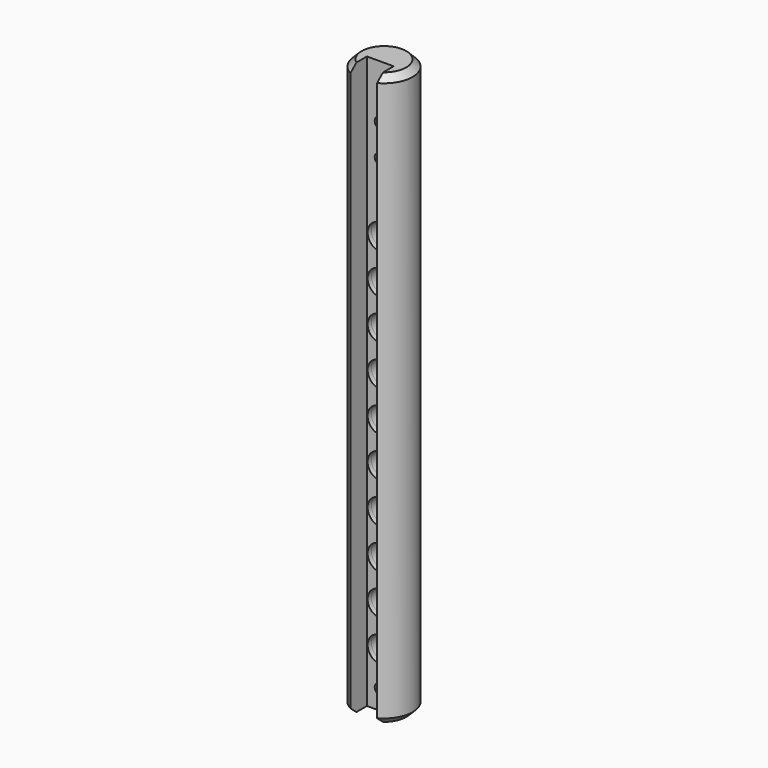
from build123d import *

# Parameters (mm, degrees)
PAD_DEPTH            = 180
CHAMFER_SIZE         = 2
SKETCH001_R          = 4
POCKET_DEPTH         = 7.960899
POCKET_DEPTH_BACK    = 9.001
SKETCH016_R          = 1.75
POCKET008_DEPTH      = 4
BODY_PLACEMENT_ANGLE = 180


with BuildPart() as part:
    # Sketch → Pad (new body)
    with BuildSketch(Plane.XY):
        with BuildLine():
            ThreePointArc((-4.2, 7.959899), (0, -9), (4.2, 7.959899))
            Line((4.2, 1.459899), (4.2, 7.959899))
            Line((-4.2, 1.459899), (4.2, 1.459899))
            Line((-4.2, 7.959899), (-4.2, 1.459899))
        make_face()
    extrude(amount=PAD_DEPTH)

    # Chamfer
    chamfer_edges = [part.edges().sort_by_distance(p)[0] for p in [
        (0, -9, 180),
        (0, -9, 0),
    ]]
    chamfer(chamfer_edges, length=CHAMFER_SIZE)

    # Sketch001 → Pocket (cut, two sides)
    with BuildSketch(Plane.XZ) as pocket_sk:
        with Locations((0, 17)):
            Circle(SKETCH001_R)
        with Locations((0, 29.7)):
            Circle(SKETCH001_R)
        with Locations((0, 42.4)):
            Circle(SKETCH001_R)
        with Locations((0, 55.1)):
            Circle(SKETCH001_R)
        with Locations((0, 67.8)):
            Circle(SKETCH001_R)
        with Locations((0, 80.5)):
            Circle(SKETCH001_R)
        with Locations((0, 93.2)):
            Circle(SKETCH001_R)
        with Locations((0, 105.9)):
            Circle(SKETCH001_R)
        with Locations((0, 118.6)):
            Circle(SKETCH001_R)
        with Locations((0, 131.3)):
            Circle(SKETCH001_R)
    extrude(amount=-POCKET_DEPTH, mode=Mode.SUBTRACT)
    extrude(pocket_sk.sketch, amount=POCKET_DEPTH_BACK, mode=Mode.SUBTRACT)

    # Sketch016 → Pocket008 (cut, symmetric)
    with BuildSketch(Plane.XZ):
        with Locations((0, 162.900868)):
            Circle(SKETCH016_R)
        with Locations((0, 152.900868)):
            Circle(SKETCH016_R)
        with Locations((0, 6)):
            Circle(SKETCH016_R)
    extrude(amount=POCKET008_DEPTH, both=True, mode=Mode.SUBTRACT)


with BuildPart() as part_1:
    # Body placement: moved
    add(part.part.moved(Location((0, -15, -37.5))).rotate(Axis((0, -15, -37.5), (0, 0, 1)), BODY_PLACEMENT_ANGLE))


solid = part_1.part
